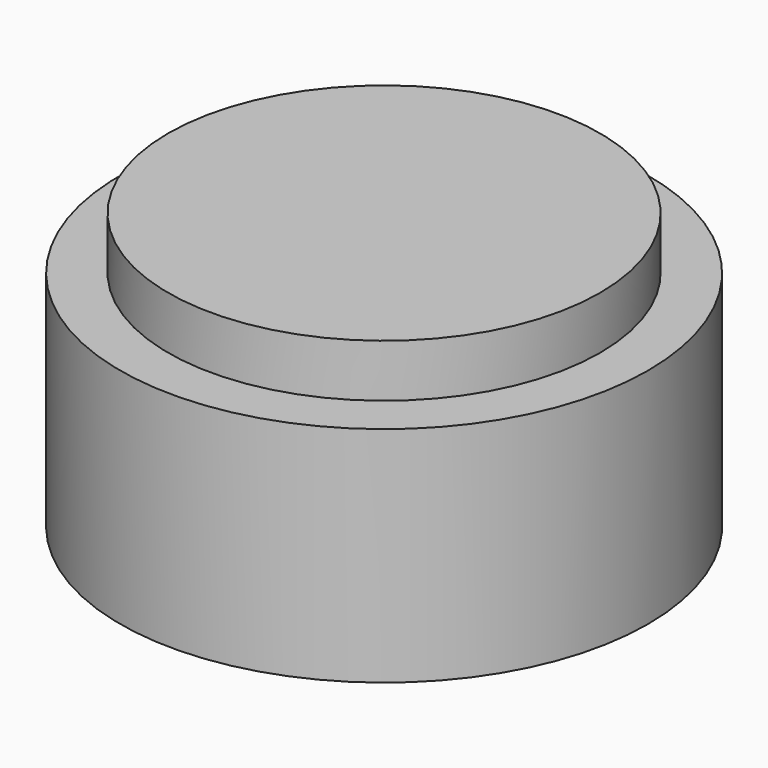
from build123d import *

# Parameters (mm, degrees)
F0_R     = 22
F0_R_2   = 17.5
F0_R_3   = 8.5
F1_DEPTH = 25
F2_DEPTH = 5
F3_DEPTH = 2
F4_R     = 22
F4_R_2   = 18
F5_DEPTH = 4.4


with BuildPart() as f1:
    # F0 (on Top) → F1 (new body)
    with BuildSketch(Plane.XY):
        Circle(F0_R)
        Circle(F0_R_2, mode=Mode.SUBTRACT)
        Circle(F0_R_2)
        Circle(F0_R_3, mode=Mode.SUBTRACT)
        Circle(F0_R_3)
    extrude(amount=F1_DEPTH)

    # F0 (on Top) → F2 (cut)
    with BuildSketch(Plane.XY):
        Circle(F0_R_3)
    extrude(amount=F2_DEPTH, mode=Mode.SUBTRACT)

    # F0 (on Top) → F3 (cut)
    with BuildSketch(Plane.XY):
        Circle(F0_R)
        Circle(F0_R_2, mode=Mode.SUBTRACT)
    extrude(amount=F3_DEPTH, mode=Mode.SUBTRACT)

    # F4 (on face) → F5 (cut)
    with BuildSketch(Plane.XY.offset(25)):
        Circle(F4_R)
        Circle(F4_R_2, mode=Mode.SUBTRACT)
    extrude(amount=-F5_DEPTH, mode=Mode.SUBTRACT)


solid = f1.part
